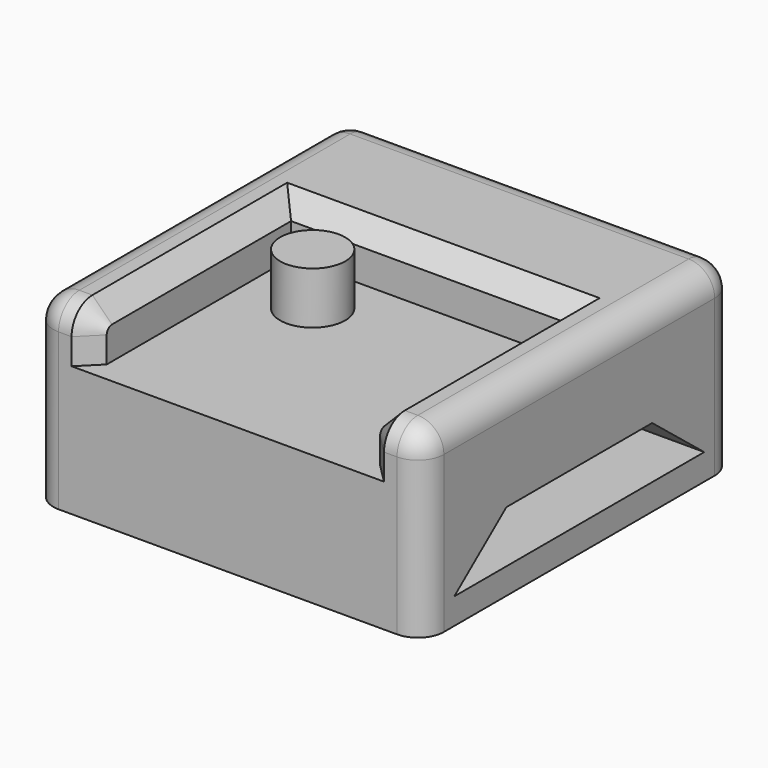
from build123d import *

# Parameters (mm, degrees)
F0_W     = 15
F0_H     = 15
F1_DEPTH = 4
F2_W     = 10.5
F2_H     = 9.6
F2_R     = 1.25
F3_DEPTH = 2
F4_W     = 15
F4_H     = 15
F5_DEPTH = 3
F7_DEPTH = 15
F8_R     = 1
F9_SIZE  = 0.75


with BuildPart() as f1:
    # F0 (on Top) → F1 (new body)
    with BuildSketch(Plane.XY):
        Rectangle(F0_W, F0_H)
    extrude(amount=F1_DEPTH)

    # F2 (on face) → F3 (cut)
    with BuildSketch(Plane.XY.offset(4)):
        with Locations((0, -2.7)):
            Rectangle(F2_W, F2_H)
        with Locations((-2.7, -0.05)):
            Circle(F2_R, mode=Mode.SUBTRACT)
    extrude(amount=-F3_DEPTH, mode=Mode.SUBTRACT)

    # F4 (on face) → F5 (join)
    with BuildSketch(Plane(origin=(0, 0, 0), x_dir=(1, 0, 0), z_dir=(0, 0, -1))):
        Rectangle(F4_W, F4_H)
    extrude(amount=F5_DEPTH)

    # F6 (on face) → F7 (cut, through all)
    with BuildSketch(Plane.YZ.offset(7.5)):
        Polygon((-3.5, 0), (-6, -2), (6, -2), (3.5, 0), align=None)
    extrude(amount=-F7_DEPTH, mode=Mode.SUBTRACT)

    # F8
    f8_edges = [f1.edges().sort_by_distance(p)[0] for p in [
        (0, 7.5, 4),
        (-7.5, 0, 4),
        (7.5, 0, 4),
        (-6.375, -7.5, 4),
        (6.375, -7.5, 4),
        (-7.5, 7.5, 0.5),
        (-7.5, -7.5, 0.5),
        (7.5, -7.5, 0.5),
        (7.5, 7.5, 0.5),
    ]]
    fillet(f8_edges, radius=F8_R)

    # F9
    f9_edges = [f1.edges().sort_by_distance(p)[0] for p in [
        (5.25, -2.2, 4),
        (0, 2.1, 4),
        (-5.25, -2.2, 4),
    ]]
    chamfer(f9_edges, length=F9_SIZE)


solid = f1.part
